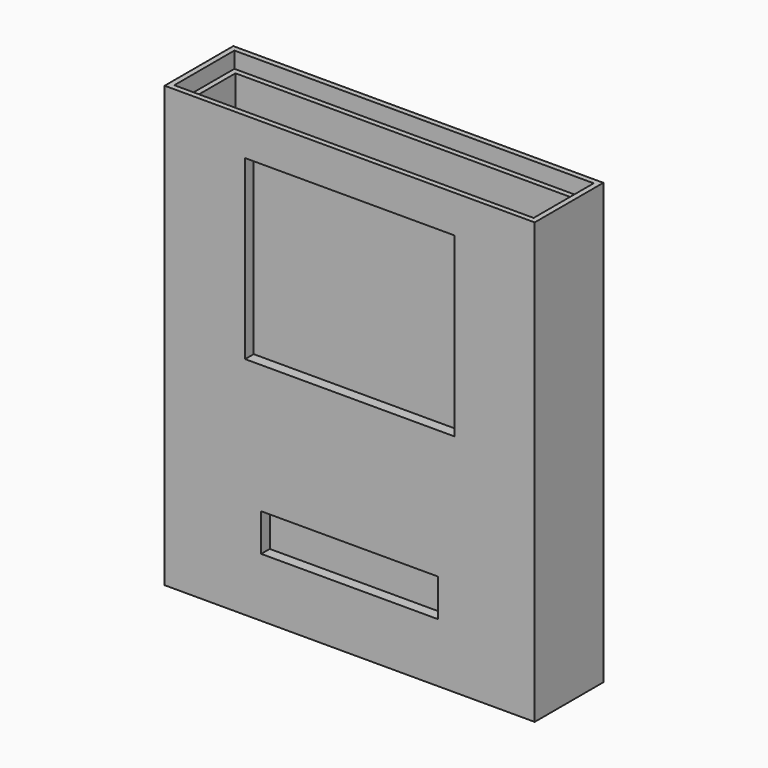
from build123d import *

# Parameters (mm, degrees)
F0_W     = 65
F0_H     = 80
F1_DEPTH = 12
F2_T     = 2
F3_W     = 67
F3_H     = 14
F4_DEPTH = 3
F5_W     = 33
F5_H     = 7
F5_W_2   = 39
F5_H_2   = 33
F6_DEPTH = 2


with BuildPart() as f1:
    # F0 (on Front) → F1 (new body)
    with BuildSketch(Plane.XZ):
        with Locations((32.5, 40)):
            Rectangle(F0_W, F0_H)
    extrude(amount=-F1_DEPTH)

    # F2
    f2_openings = [f1.faces().sort_by_distance(p)[0] for p in [
        (32.5, 6, 80),
    ]]
    offset(amount=F2_T, openings=f2_openings, kind=Kind.INTERSECTION)

    # F3 (on face) → F4 (cut)
    with BuildSketch(Plane.XY.offset(80)):
        with Locations((32.5, 6)):
            Rectangle(F3_W, F3_H)
    extrude(amount=-F4_DEPTH, mode=Mode.SUBTRACT)

    # F5 (on face) → F6 (cut, through all)
    with BuildSketch(Plane.XZ.offset(2)):
        with Locations((32.5, 12.5)):
            Rectangle(F5_W, F5_H)
        with Locations((32.5, 56.5)):
            Rectangle(F5_W_2, F5_H_2)
    extrude(amount=-F6_DEPTH, mode=Mode.SUBTRACT)


solid = f1.part
